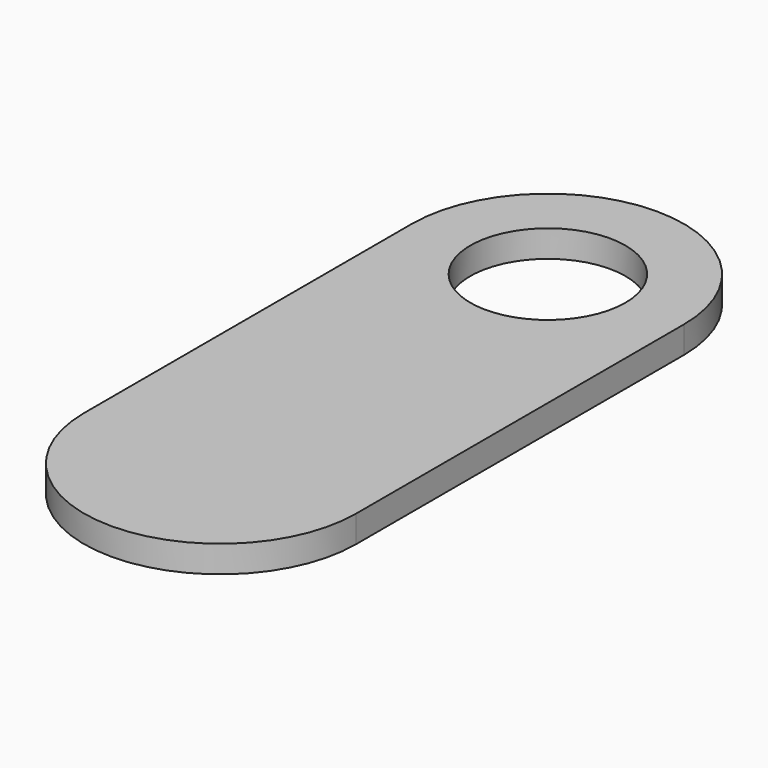
from build123d import *

# Parameters (mm, degrees)
F0_R     = 6.625
F1_DEPTH = 2.3


with BuildPart() as f1:
    # F0 (on Top) → F1 (new body)
    with BuildSketch(Plane.XY):
        with BuildLine():
            ThreePointArc((-11.625, -35), (0, -46.625), (11.625, -35))
            ThreePointArc((11.625, -35), (0, -23.375), (-11.625, -35))
        make_face()
        with BuildLine():
            Line((11.625, -35), (11.625, 0))
            ThreePointArc((11.625, 0), (0, -11.625), (-11.625, 0))
            Line((-11.625, 0), (-11.625, -35))
            ThreePointArc((-11.625, -35), (0, -23.375), (11.625, -35))
        make_face()
        with BuildLine():
            ThreePointArc((-11.625, 0), (0, -11.625), (11.625, 0))
            ThreePointArc((11.625, 0), (0, 11.625), (-11.625, 0))
        make_face()
        Circle(F0_R, mode=Mode.SUBTRACT)
    extrude(amount=F1_DEPTH)


solid = f1.part
